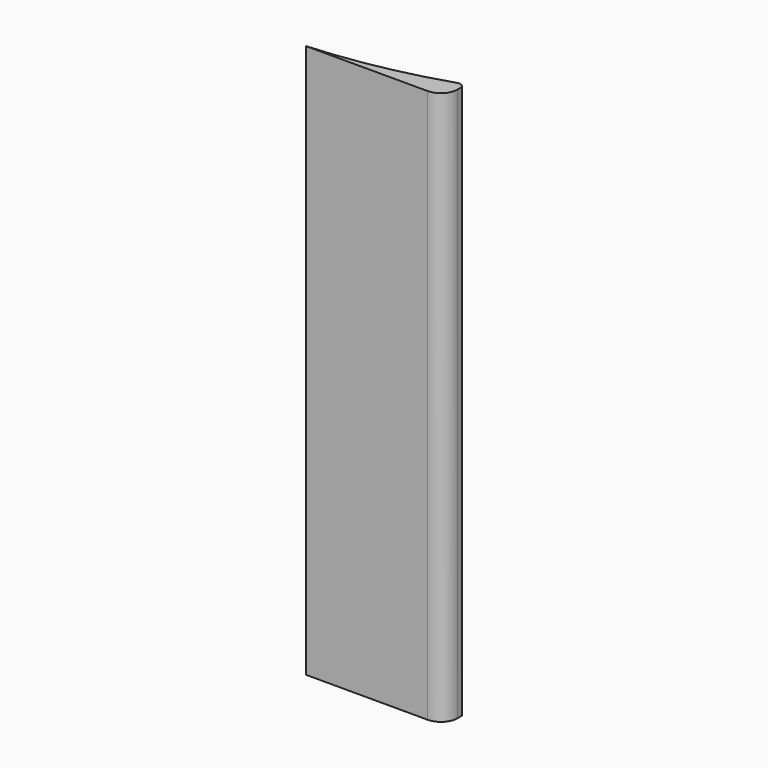
from build123d import *

# Parameters (mm, degrees)
F1_DEPTH = 100


with BuildPart() as f1:
    # F0 (on Top) → F1 (new body)
    with BuildSketch(Plane.XY):
        with BuildLine():
            Line((-25, 0), (-3, 0))
            ThreePointArc((-3, 0), (-0.87868, 0.87868), (0, 3))
            Line((0, 3), (0, 4))
            ThreePointArc((0, 4), (-0.523502, 4.479375), (-1.224911, 4.588371))
            ThreePointArc((-1.224911, 4.588371), (-1.428663, 4.521681), (-1.632563, 4.455447))
            ThreePointArc((-1.632563, 4.455447), (-13.177363, 1.499139), (-25, 0))
        make_face()
    extrude(amount=F1_DEPTH)


solid = f1.part
